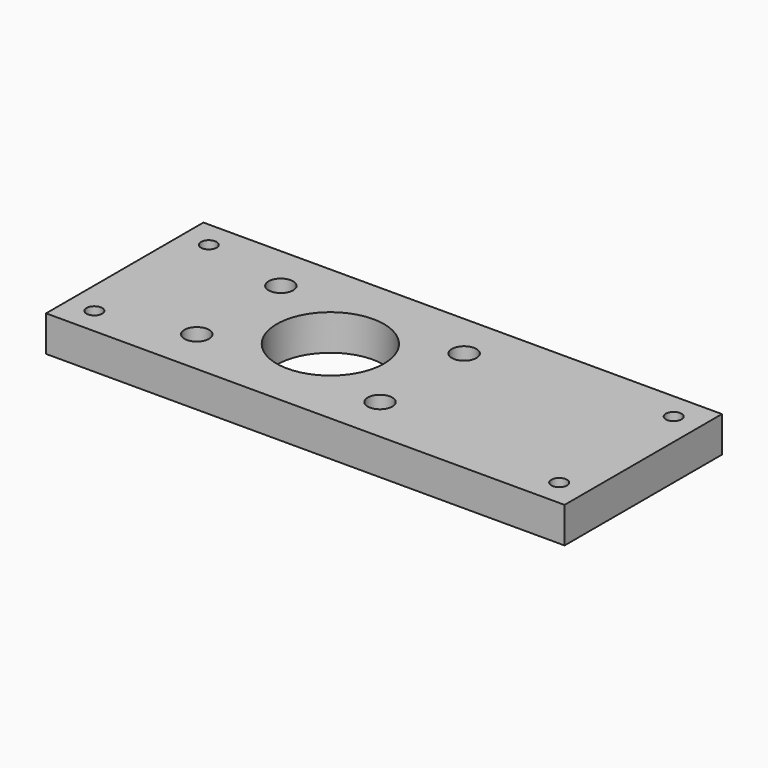
from build123d import *

# Parameters (mm, degrees)
F0_W     = 736.6
F0_H     = 279.4
F0_R     = 11.1125
F0_R_2   = 17.4625
F0_R_3   = 76.2
F1_DEPTH = 50.8


with BuildPart() as f1:
    # F0 (on Top) → F1 (new body)
    with BuildSketch(Plane.XY):
        Rectangle(F0_W, F0_H)
        with Locations((-330.2, -101.6)):
            Circle(F0_R, mode=Mode.SUBTRACT)
        with Locations((-206.248, -74.676)):
            Circle(F0_R_2, mode=Mode.SUBTRACT)
        with Locations((54.102, -74.676)):
            Circle(F0_R_2, mode=Mode.SUBTRACT)
        with Locations((330.2, -101.6)):
            Circle(F0_R, mode=Mode.SUBTRACT)
        with Locations((-76.2, 0)):
            Circle(F0_R_3, mode=Mode.SUBTRACT)
        with Locations((-330.2, 101.6)):
            Circle(F0_R, mode=Mode.SUBTRACT)
        with Locations((-206.248, 74.676)):
            Circle(F0_R_2, mode=Mode.SUBTRACT)
        with Locations((54.102, 74.676)):
            Circle(F0_R_2, mode=Mode.SUBTRACT)
        with Locations((330.2, 101.6)):
            Circle(F0_R, mode=Mode.SUBTRACT)
    extrude(amount=F1_DEPTH)


solid = f1.part
